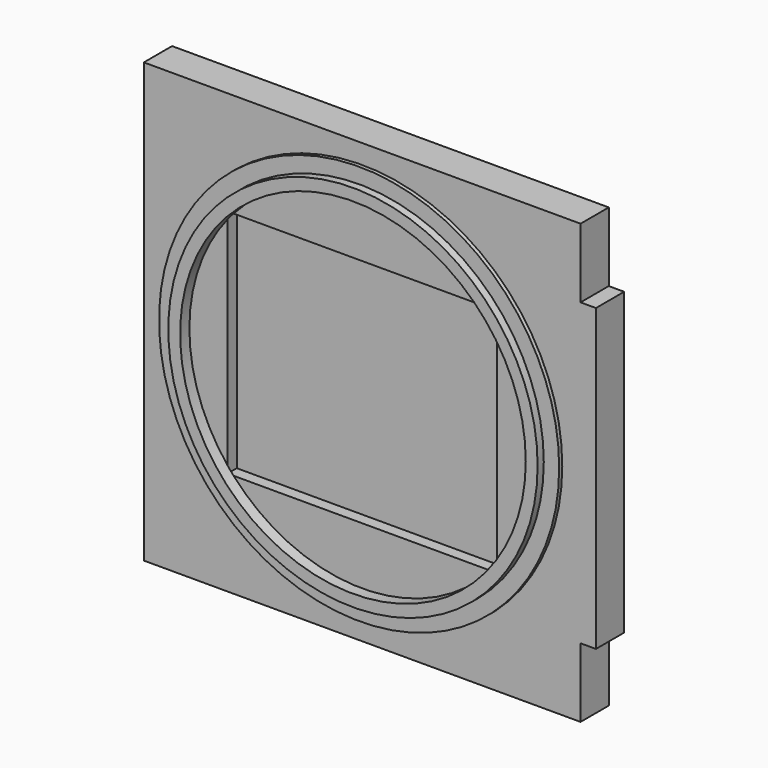
from build123d import *

# Parameters (mm, degrees)
F0_W     = 4
F0_H     = 78
F1_DEPTH = 9.17
F2_R     = 48
F2_R_2   = 44.915
F3_DEPTH = 3
F4_R     = 52
F4_R_2   = 45.823457
F5_DEPTH = 1
F6_W     = 70
F6_H     = 60
F7_DEPTH = 3


with BuildPart() as f1:
    # F0 (on Front) → F1 (new body)
    with BuildSketch(Plane.XZ):
        Polygon((56.75, 39), (56.75, 57), (-56.75, 57), (-56.75, -57), (56.75, -57), (56.75, -39), align=None)
        with Locations((58.75, 0)):
            Rectangle(F0_W, F0_H)
    extrude(amount=F1_DEPTH)

    # F2 (on face) → F3 (join)
    with BuildSketch(Plane.XZ.offset(9.17)):
        Circle(F2_R)
        Circle(F2_R_2, mode=Mode.SUBTRACT)
    extrude(amount=F3_DEPTH)

    # F4 (on face) → F5 (join)
    with BuildSketch(Plane.XZ.offset(9.17)):
        Circle(F4_R)
        Circle(F4_R_2, mode=Mode.SUBTRACT)
    extrude(amount=F5_DEPTH)

    # F6 (on face) → F7 (cut)
    with BuildSketch(Plane.XZ.offset(9.17)):
        Rectangle(F6_W, F6_H)
    extrude(amount=-F7_DEPTH, mode=Mode.SUBTRACT)


solid = f1.part
